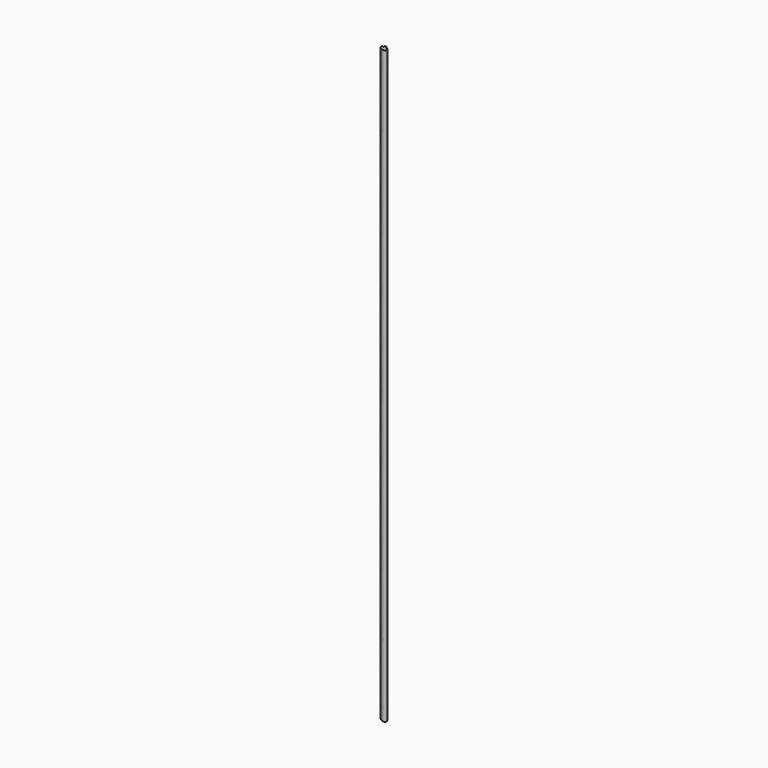
from build123d import *

# Parameters (mm, degrees)
F1_DEPTH = 609.6


with BuildPart() as f1:
    # F0 (on Top) → F1 (new body)
    with BuildSketch(Plane.XY):
        with BuildLine():
            add(Edge.make_bspline(
                [(-54.6600223355, -21.0188633393), (-55.5751759708, -19.8935928993), (-55.7127338611, -17.3690180983), (-52.3425478, -20.267932437), (-54.2003823255, -16.3980574266), (-50.9523734652, -17.3562991301), (-51.5231373945, -19.2706332925), (-48.5867959599, -18.5888106492), (-46.9647388919, -24.9482647926), (-53.2081026781, -22.8041398312), (-54.6600223355, -21.0188633393)],
                knots=[0, 0, 0, 0, 0.1254286275, 0.2350172617, 0.3447180319, 0.451627535, 0.5401755486, 0.652049683, 0.801003588, 1, 1, 1, 1], degree=3))
        make_face()
    extrude(amount=F1_DEPTH)


solid = f1.part
